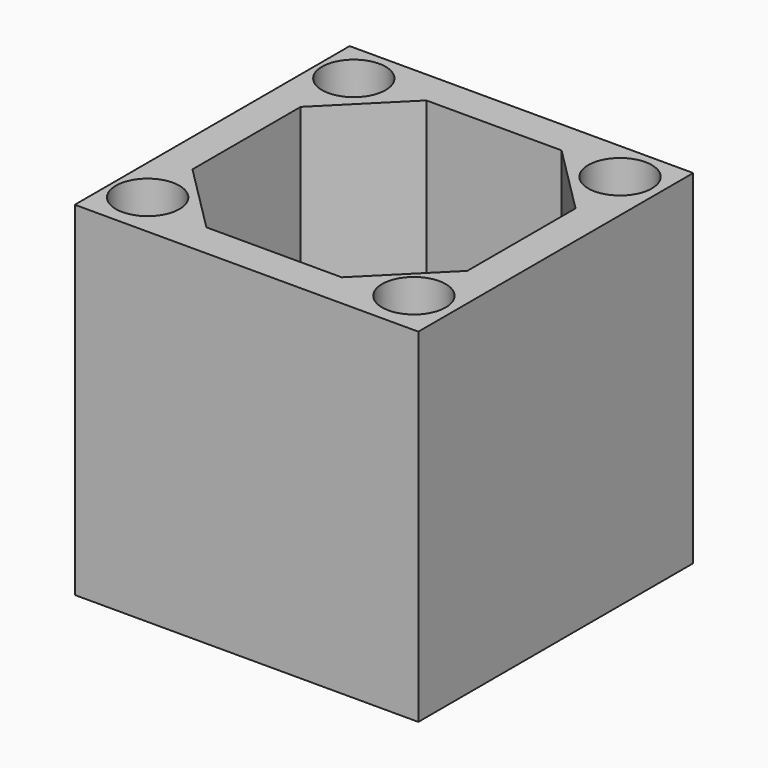
from build123d import *

# Parameters (mm, degrees)
F2_W     = 20
F2_H     = 20
F3_DEPTH = 2
F4_W     = 20
F4_H     = 20
F5_DEPTH = 18
F6_R     = 1.85
F7_DEPTH = 10


with BuildPart() as f3:
    # F2 (on Top) → F3 (new body)
    with BuildSketch(Plane.XY):
        with Locations((10, -10)):
            Rectangle(F2_W, F2_H)
    extrude(amount=F3_DEPTH)

    # F4 (on face) → F5 (join)
    with BuildSketch(Plane.XY.offset(2)):
        with Locations((10, -10)):
            Rectangle(F4_W, F4_H)
        Polygon((2, -6.06223871), (2, -2), (6.06223871, -2), (13.93776129, -2), (18, -2), (18, -6.06223871), (18, -13.93776129), (18, -18), (13.93776129, -18), (6.06223871, -18), (2, -18), (2, -13.93776129), align=None, mode=Mode.SUBTRACT)
        Polygon((6.06223871, -2), (2, -2), (2, -6.06223871), align=None)
        Polygon((18, -2), (13.93776129, -2), (18, -6.06223871), align=None)
        Polygon((18, -18), (18, -13.93776129), (13.93776129, -18), align=None)
        Polygon((6.06223871, -18), (2, -13.93776129), (2, -18), align=None)
    extrude(amount=F5_DEPTH)

    # F6 (on face) → F7 (cut)
    with BuildSketch(Plane.XY.offset(20)):
        with Locations((2.1344347065, -2.3655652935)):
            Circle(F6_R)
        with Locations((17.6344347065, -2.3655652935)):
            Circle(F6_R)
        with Locations((17.6344347065, -17.3655652935)):
            Circle(F6_R)
        with Locations((2.1344347065, -17.3655652935)):
            Circle(F6_R)
    extrude(amount=-F7_DEPTH, mode=Mode.SUBTRACT)


solid = f3.part
